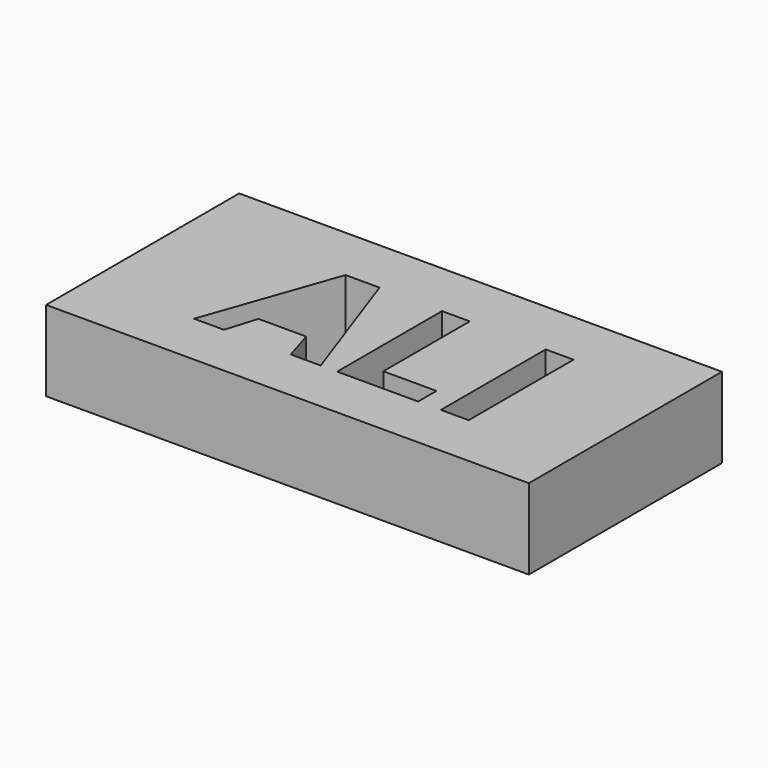
from build123d import *

# Parameters (mm, degrees)
F0_W     = 76.2
F0_H     = 38.1
F0_W_2   = 4.3870395845
F0_H_2   = 20.68563866
F1_DEPTH = 12.7


with BuildPart() as f1:
    # F0 (on Top) → F1 (new body)
    with BuildSketch(Plane.XY):
        Rectangle(F0_W, F0_H)
        Polygon((-1.5570254376, -10.5457305908), (-6.2836191695, -10.5457305908), (-7.7821848067, -5.6199317591), (-15.3248142677, -5.6199317591), (-16.823379905, -10.5457305908), (-21.5499736369, -10.5457305908), (-14.2472957733, 10.2259284532), (-8.8868676329, 10.2259284532), align=None, mode=Mode.SUBTRACT)
        Polygon((13.8225137457, -10.5457305908), (1.0462230259, -10.5457305908), (1.0462230259, 10.1399080692), (5.4332626104, 10.1399080692), (5.4332626104, -6.9238196851), (13.8225137457, -6.9238196851), align=None, mode=Mode.SUBTRACT)
        with Locations((19.6107801118, -0.2029112608)):
            Rectangle(F0_W_2, F0_H_2, mode=Mode.SUBTRACT)
    extrude(amount=F1_DEPTH)


solid = f1.part
